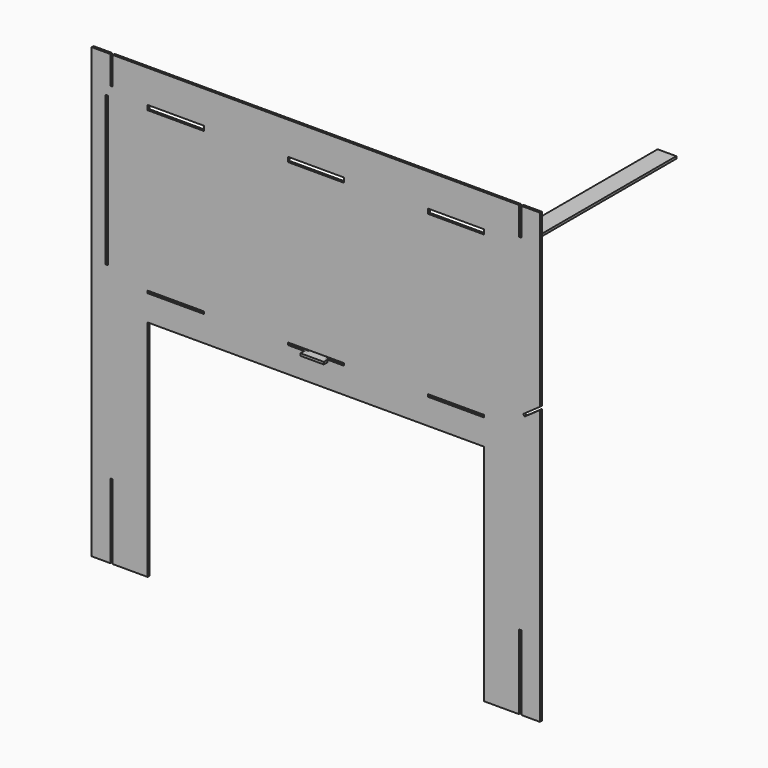
from build123d import *

# Parameters (mm, degrees)
F0_W      = 609.6
F0_H      = 609.6
F1_DEPTH  = 3.175
F2_W      = 457.2
F2_H      = 304.8
F2_W_2    = 3.175
F2_H_2    = 152.4
F2_W_3    = 76.2
F2_H_3    = 3.175
F2_H_4    = 6.35
F3_DEPTH  = 3.176
F4_W      = 3.175
F4_H      = 101.6
F5_DEPTH  = 3.176
F6_W      = 3.175
F6_H      = 203.2
F7_DEPTH  = 3.176
F8_W      = 25.4
F8_H      = 3.175
F9_DEPTH  = 3.176
F10_DEPTH = 596.9
F11_W     = 31.75
F11_H     = 3.175
F12_DEPTH = 6.35
F13_W     = 3.175
F13_H     = 114.3
F14_DEPTH = 3.175


with BuildPart() as f1:
    # F0 (on Front) → F1 (new body)
    with BuildSketch(Plane.XZ):
        Rectangle(F0_W, F0_H)
    extrude(amount=F1_DEPTH)

    # F2 (on face) → F3 (cut, through all)
    with BuildSketch(Plane.XZ.offset(3.175)):
        with Locations((0, -152.4)):
            Rectangle(F2_W, F2_H)
        with Locations((-277.8125, 228.6)):
            Rectangle(F2_W_2, F2_H_2)
        with Locations((277.8125, 228.6)):
            Rectangle(F2_W_2, F2_H_2)
        Polygon((283.9935380751, 54.0164299872), (304.8, 68.5852714705), (304.8, 72.4612307898), (282.1724328896, 56.6172377278), align=None)
        with Locations((-190.5, 36.5125)):
            Rectangle(F2_W_3, F2_H_3)
        with Locations((0, 36.5125)):
            Rectangle(F2_W_3, F2_H_3)
        with Locations((190.5, 36.5125)):
            Rectangle(F2_W_3, F2_H_3)
        Polygon((38.0999907298, 260.3234220437), (-38.0999907298, 260.3765779563), (-38.0999907298, 254.0265779563), (38.0999907298, 253.9734220437), align=None)
        with Locations((-190.4999907298, 257.2015779563)):
            Rectangle(F2_W_3, F2_H_4)
        with Locations((190.4999907298, 257.1484220437)):
            Rectangle(F2_W_3, F2_H_4)
    extrude(amount=-F3_DEPTH, mode=Mode.SUBTRACT)

    # F4 (on face) → F5 (cut, through all)
    with BuildSketch(Plane.XZ.offset(3.175)):
        with Locations((-277.8125, -254)):
            Rectangle(F4_W, F4_H)
        with Locations((277.8125, -254)):
            Rectangle(F4_W, F4_H)
    extrude(amount=-F5_DEPTH, mode=Mode.SUBTRACT)

    # F6 (on face) → F7 (cut, through all)
    with BuildSketch(Plane.XZ.offset(3.175)):
        with Locations((-284.1625, 152.4)):
            Rectangle(F6_W, F6_H)
    extrude(amount=-F7_DEPTH, mode=Mode.SUBTRACT)

    # F8 (on face) → F9 (cut, through all)
    with BuildSketch(Plane.XZ.offset(3.175)):
        with Locations((0, 33.3375)):
            Rectangle(F8_W, F8_H)
    extrude(amount=-F9_DEPTH, mode=Mode.SUBTRACT)

    # F13 (on face) → F14 (join)
    with BuildSketch(Plane.XZ.offset(3.175)):
        with Locations((-277.8125, 209.55)):
            Rectangle(F13_W, F13_H)
        with Locations((277.8125, 209.55)):
            Rectangle(F13_W, F13_H)
    extrude(amount=-F14_DEPTH)


with BuildPart() as f10:
    # F8 (on face) → F10 (new body)
    with BuildSketch(Plane.XZ.offset(3.175)):
        with Locations((0, 33.3375)):
            Rectangle(F8_W, F8_H)
    extrude(amount=-F10_DEPTH)

    # F11 (on face) → F12 (join)
    with BuildSketch(Plane.XZ.offset(3.175)):
        with Locations((0, 33.3375)):
            Rectangle(F11_W, F11_H)
    extrude(amount=F12_DEPTH)


solid = Compound([f1.part, f10.part])
